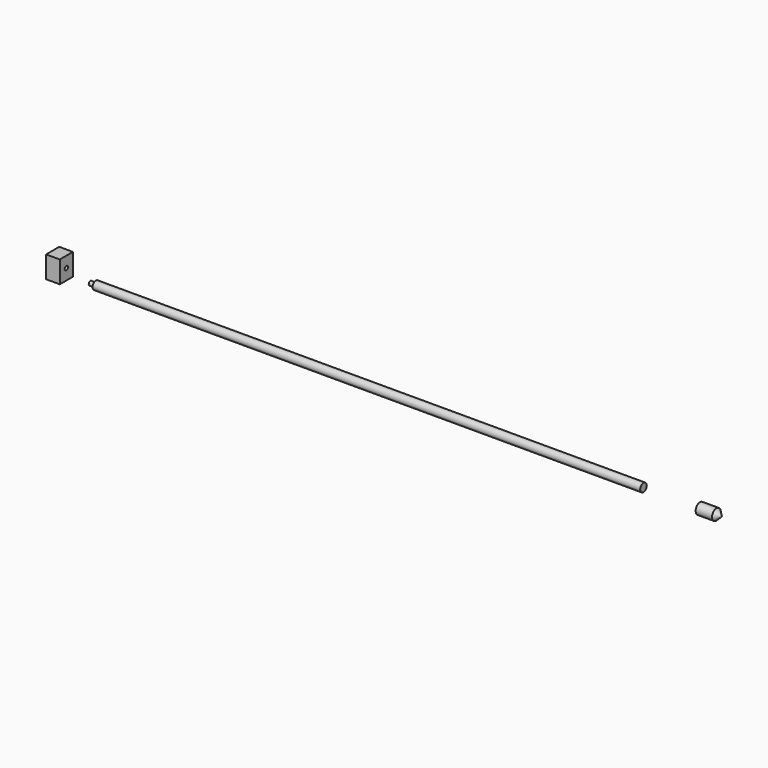
from build123d import *

# Parameters (mm, degrees)
F0_W     = 5
F0_H     = 8
F1_DEPTH = 6
F2_W     = 200
F2_H     = 1.5
F4_R     = 0.75
F5_DEPTH = 2
F6_R     = 0.75
F7_DEPTH = 2


with BuildPart() as f1:
    # F0 (on Front) → F1 (new body)
    with BuildSketch(Plane.XZ):
        with Locations((2.5, 4)):
            Rectangle(F0_W, F0_H)
    extrude(amount=F1_DEPTH)

    # F6 (on face) → F7 (cut)
    with BuildSketch(Plane.YZ.offset(5)):
        with Locations((-3, 4)):
            Circle(F6_R)
    extrude(amount=-F7_DEPTH, mode=Mode.SUBTRACT)


with BuildPart() as f3:
    # F2 (on Front) → F3 (revolve)
    with BuildSketch(Plane.XZ):
        with Locations((113.379899, 0.75)):
            Rectangle(F2_W, F2_H)
    revolve(axis=Axis((113.379899, 0, 0), (1, 0, 0)))

    # F4 (on face) → F5 (join)
    with BuildSketch(Plane(origin=(13.379899, 0, 0), x_dir=(0, -1, 0), z_dir=(-1, 0, 0))):
        Circle(F4_R)
    extrude(amount=F5_DEPTH)


with BuildPart() as f9:
    # F8 (on Front) → F9 (revolve)
    with BuildSketch(Plane.XZ):
        Polygon((234.029882, 2), (234.029882, 0), (242.029882, 0), (240.029882, 2), align=None)
    revolve(axis=Axis((238.029882, 0, 0), (1, 0, 0)))


solid = Compound([f1.part, f3.part, f9.part])
